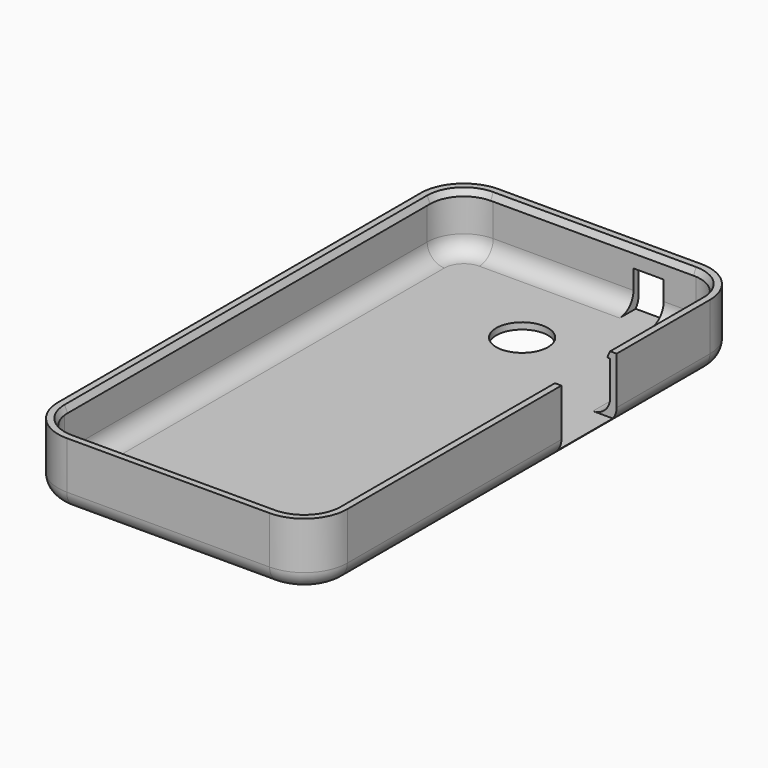
from build123d import *

# Parameters (mm, degrees)
F1_DEPTH  = 15
F2_T      = -1.5
F3_R      = 6
F4_DEPTH  = 25
F5_R      = 4
F6_R      = 4
F12_DEPTH = 7
F13_W     = 7
F13_H     = 2.5
F14_DEPTH = 25


with BuildPart() as f1:
    # F0 (on Top) → F1 (new body)
    with BuildSketch(Plane.XY):
        with BuildLine():
            Line((23.5, 62.5), (-23.5, 62.5))
            ThreePointArc((-23.5, 62.5), (-30.5710678119, 59.5710678119), (-33.5, 52.5))
            Line((-33.5, 52.5), (-33.5, -52.5))
            ThreePointArc((-33.5, -52.5), (-30.5710678119, -59.5710678119), (-23.5, -62.5))
            Line((-23.5, -62.5), (23.5, -62.5))
            ThreePointArc((23.5, -62.5), (30.5710678119, -59.5710678119), (33.5, -52.5))
            Line((33.5, -52.5), (33.5, 52.5))
            ThreePointArc((33.5, 52.5), (30.5710678119, 59.5710678119), (23.5, 62.5))
        make_face()
    extrude(amount=F1_DEPTH)

    # F2
    f2_openings = [f1.faces().sort_by_distance(p)[0] for p in [
        (0, 0, 15),
    ]]
    offset(amount=F2_T, openings=f2_openings)

    # F3 (on face) → F4 (cut)
    with BuildSketch(Plane.XY.offset(1.5)):
        with Locations((0, 40)):
            Circle(F3_R)
    extrude(amount=-F4_DEPTH, mode=Mode.SUBTRACT)

    # F5
    f5_edges = [f1.edges().sort_by_distance(p)[0] for p in [
        (32, 0, 1.5),
        (29.510408, 58.510408, 1.5),
        (0, 61, 1.5),
        (-29.510408, 58.510408, 1.5),
        (-32, 0, 1.5),
        (-29.510408, -58.510408, 1.5),
        (0, -61, 1.5),
        (29.510408, -58.510408, 1.5),
    ]]
    fillet(f5_edges, radius=F5_R)

    # F6
    f6_edges = [f1.edges().sort_by_distance(p)[0] for p in [
        (-33.5, 0, 0),
        (-30.571068, 59.571068, 0),
        (-30.571068, -59.571068, 0),
        (0, -62.5, 0),
        (30.571068, -59.571068, 0),
        (33.5, 0, 0),
        (0, 62.5, 0),
        (30.571068, 59.571068, 0),
    ]]
    fillet(f6_edges, radius=F6_R)

    # F10: sweep along a path in F10_path
    with BuildLine(Plane(origin=(32, -52.5, 15), x_dir=(0, 1, 0), z_dir=(0, 0, 1))) as f10_path:
        Line((0, 0), (105, 0))
        ThreePointArc((105, 0), (111.0104076401, 2.4895923599), (113.5, 8.5))
        Line((113.5, 8.5), (113.5, 55.5))
        ThreePointArc((113.5, 55.5), (111.0104076401, 61.5104076401), (105, 64))
        Line((105, 64), (0, 64))
        ThreePointArc((0, 64), (-6.0104076401, 61.5104076401), (-8.5, 55.5))
        Line((-8.5, 55.5), (-8.5, 8.5))
    # F9 (on offset) → F10 (sweep)
    with BuildSketch(Plane.XZ.offset(52.5)):
        Polygon((32, 13.5), (32, 15), (31.3, 13.5), align=None)
    sweep(path=f10_path.line)

    # F11: sweep along a path in F11_path
    with BuildLine(Plane(origin=(23.5, -61, 15), x_dir=(0, -1, 0), z_dir=(0, 0, -1))) as f11_path:
        ThreePointArc((0, 0), (-2.4895923599, -6.0104076401), (-8.5, -8.5))
    # F9 (on offset) → F11 (sweep)
    with BuildSketch(Plane.XZ.offset(52.5)):
        Polygon((32, 13.5), (32, 15), (31.3, 13.5), align=None)
    sweep(path=f11_path.line)

    # F7 (on face) → F12 (cut)
    with BuildSketch(Plane.YZ.offset(33.5)):
        Polygon((25.5, 15), (9.5, 15), (9.5, 1.5), (25.5, 1.5), (25.5, 9.5), align=None)
    extrude(amount=-F12_DEPTH, mode=Mode.SUBTRACT)

    # F13 (on face) → F14 (cut)
    with BuildSketch(Plane(origin=(0, 62.5, 0), x_dir=(-1, 0, 0), z_dir=(0, 1, 0))):
        Polygon((-16, 10), (-16, 9.5), (-16, 4), (-9, 4), (-9, 10), align=None)
        with Locations((-12.5, 2.75)):
            Rectangle(F13_W, F13_H)
    extrude(amount=-F14_DEPTH, mode=Mode.SUBTRACT)


solid = f1.part
